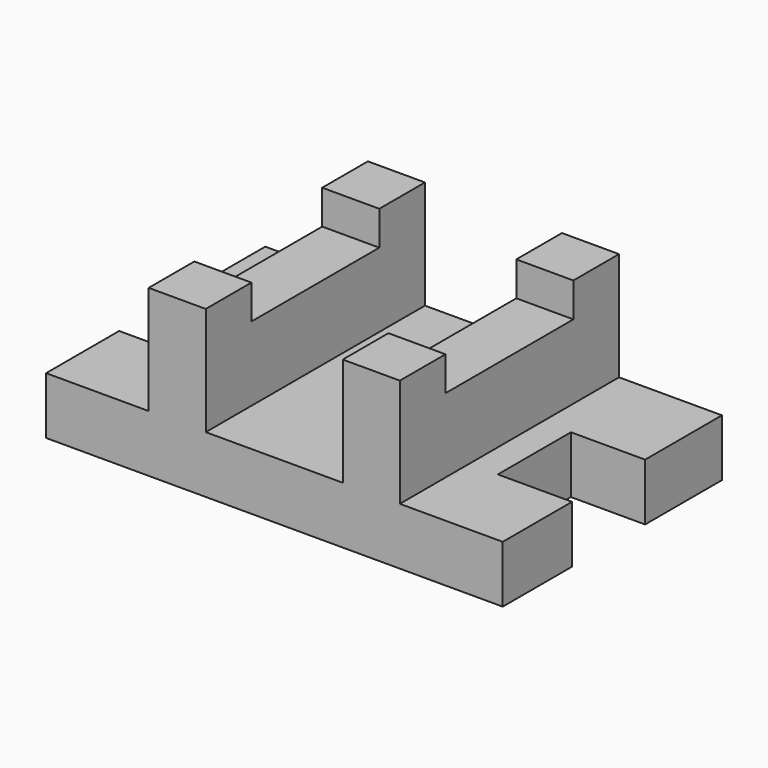
from build123d import *

# Parameters (mm, degrees)
F0_R     = 15.875
F1_DEPTH = 31.75
F0_W     = 31.75
F0_H     = 31.75
F2_DEPTH = 92.075
F0_H_2   = 88.9
F3_DEPTH = 73.025


with BuildPart() as f1:
    # F0 (on Top) → F1 (new body)
    with BuildSketch(Plane.XY):
        Polygon((-69.928209, 63.52225), (-127, 63.52225), (-127, 12.72225), (-85.725, 12.72225), (-85.725, -38.07775), (-127, -38.07775), (-127, -88.87775), (-69.928209, -88.87775), (-69.928209, -57.12775), (-69.928209, 31.77225), align=None)
        Polygon((38.021791, 63.52225), (-38.178209, 63.52225), (-38.178209, 31.77225), (-38.178209, -57.12775), (-38.178209, -88.87775), (38.021791, -88.87775), (38.021791, -57.12775), (38.021791, 31.77225), align=None)
        with Locations((0, -12.67775)):
            Circle(F0_R, mode=Mode.SUBTRACT)
        Polygon((127, 63.52225), (69.771791, 63.52225), (69.771791, 31.77225), (69.771791, -57.12775), (69.771791, -88.87775), (127, -88.87775), (127, -40.683407), (85.725, -40.683407), (85.725, 10.116593), (127, 10.116593), align=None)
    extrude(amount=F1_DEPTH)

    # F0 (on Top) → F2 (join)
    with BuildSketch(Plane.XY):
        with Locations((-54.053209, 47.64725)):
            Rectangle(F0_W, F0_H)
        with Locations((-54.053209, -73.00275)):
            Rectangle(F0_W, F0_H)
        with Locations((53.896791, 47.64725)):
            Rectangle(F0_W, F0_H)
        with Locations((53.896791, -73.00275)):
            Rectangle(F0_W, F0_H)
    extrude(amount=F2_DEPTH)

    # F0 (on Top) → F3 (join)
    with BuildSketch(Plane.XY):
        with Locations((-54.053209, -12.67775)):
            Rectangle(F0_W, F0_H_2)
        with Locations((53.896791, -12.67775)):
            Rectangle(F0_W, F0_H_2)
    extrude(amount=F3_DEPTH)


solid = f1.part
